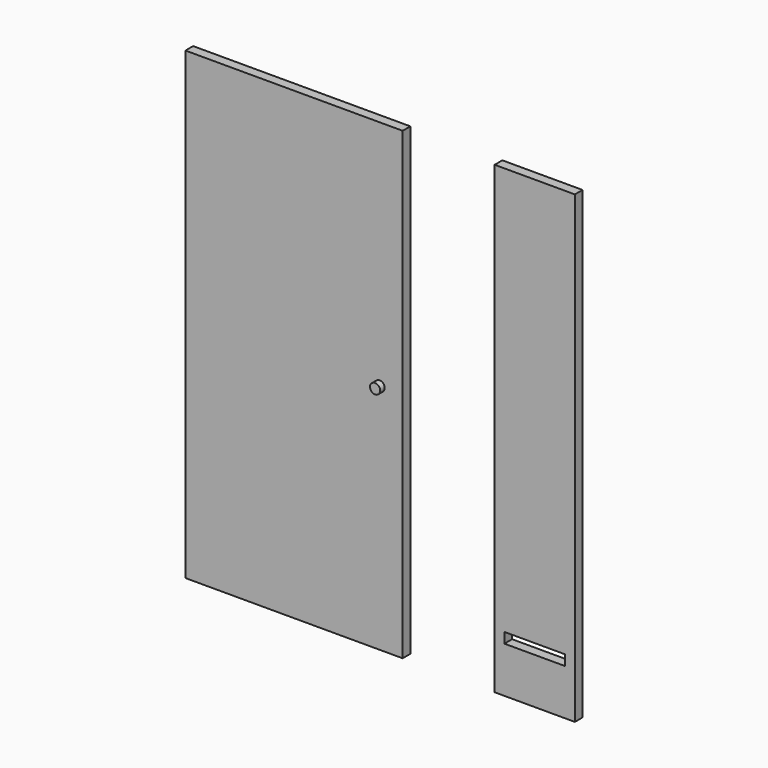
from build123d import *

# Parameters (mm, degrees)
F0_W     = 945
F0_H     = 2020
F1_DEPTH = 42
F2_W     = 349
F2_H     = 2020
F3_DEPTH = 42
F4_W     = 264
F4_H     = 45
F5_DEPTH = 42.001
F6_R     = 22
F7_DEPTH = 25


with BuildPart() as f1:
    # F0 (on Front) → F1 (new body)
    with BuildSketch(Plane.XZ):
        Rectangle(F0_W, F0_H)
    extrude(amount=F1_DEPTH)

    # F6 (on face) → F7 (join)
    with BuildSketch(Plane.XZ.offset(42)):
        with Locations((372.5, 0)):
            Circle(F6_R)
    extrude(amount=F7_DEPTH)


with BuildPart() as f3:
    # F2 (on Front) → F3 (new body)
    with BuildSketch(Plane.XZ):
        with Locations((1047, 0)):
            Rectangle(F2_W, F2_H)
    extrude(amount=F3_DEPTH)

    # F4 (on face) → F5 (cut, through all)
    with BuildSketch(Plane.XZ.offset(42)):
        with Locations((1047, -787.5)):
            Rectangle(F4_W, F4_H)
    extrude(amount=-F5_DEPTH, mode=Mode.SUBTRACT)


solid = Compound([f1.part, f3.part])
